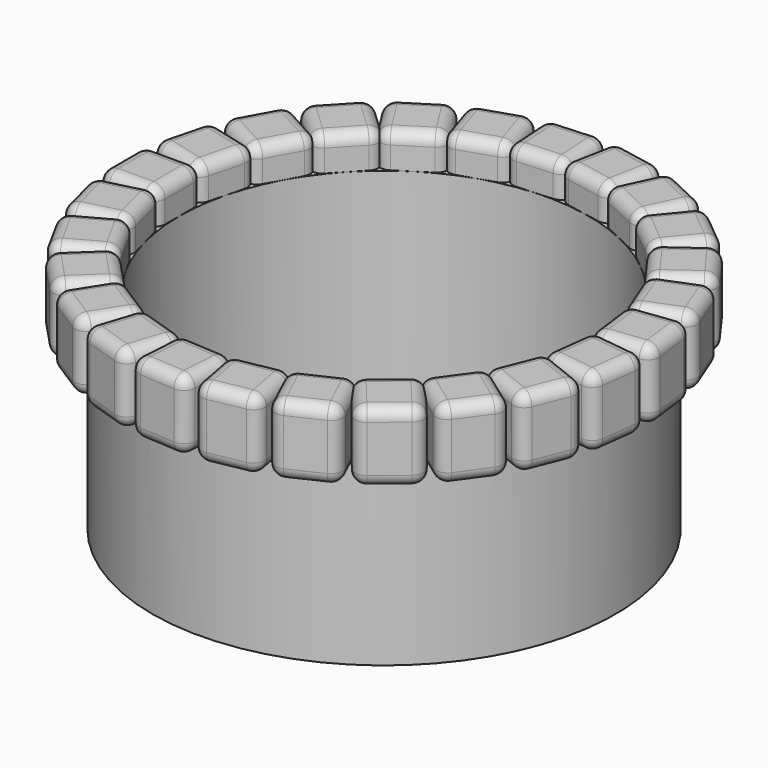
from build123d import *

# Parameters (mm, degrees)
SKETCH008_W           = 2.5
SKETCH008_H           = 3
PAD002_DEPTH          = 1.25
FILLET_R              = 0.5
POLARPATTERN002_COUNT = 25
SKETCH009_W           = 1.15
SKETCH009_H           = 8.9


with BuildPart() as part:
    # Sketch008 → Pad002 (new body, symmetric)
    with BuildSketch(Plane.XZ):
        with Locations((-10, 1.451109)):
            Rectangle(SKETCH008_W, SKETCH008_H)
    extrude(amount=PAD002_DEPTH, both=True)

    # Fillet
    fillet_edges = [part.edges().sort_by_distance(p)[0] for p in [
        (-11.25, 0, 2.951109),
        (-11.25, 0, -0.048891),
        (-11.25, 1.25, 1.451109),
        (-11.25, -1.25, 1.451109),
        (-8.75, 0, -0.048891),
        (-10, 1.25, -0.048891),
        (-10, -1.25, -0.048891),
        (-8.75, 0, 2.951109),
        (-8.75, 1.25, 1.451109),
        (-8.75, -1.25, 1.451109),
        (-10, 1.25, 2.951109),
        (-10, -1.25, 2.951109),
    ]]
    fillet(fillet_edges, radius=FILLET_R)

    # PolarPattern002: part ×25 about axis
    polarpattern002_axis = Axis((0, 0, 0), (0, 0, 1))


with BuildPart() as part_1:
    add(part.part)
    for i in range(1, POLARPATTERN002_COUNT):
        add(part.part.rotate(polarpattern002_axis, i * 360 / POLARPATTERN002_COUNT))

    # Sketch009 → Revolution004 (revolve)
    with BuildSketch(Plane.XZ):
        with Locations((-9.325, -2.95)):
            Rectangle(SKETCH009_W, SKETCH009_H)
    revolve(axis=Axis((0, 0, 0), (0, 0, 1)))


solid = part_1.part
